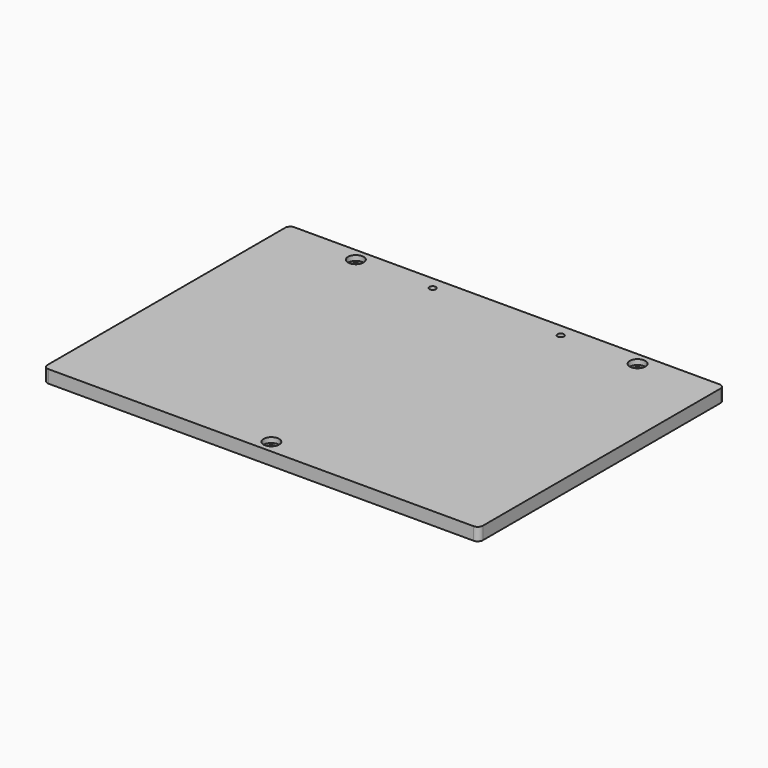
from build123d import *

# Parameters (mm, degrees)
BOX_W            = 170
BOX_H            = 120
BOX_DEPTH        = 5
HOLE_D           = 3.4
HOLE_DEPTH       = 25
HOLE_CBORE_D     = 6.1
HOLE_CBORE_DEPTH = 2
SKETCH001_R      = 1.25
HOLE001_DEPTH    = 5.001
FILLET_R         = 2


with BuildPart() as part:
    # Box → Box (join)
    with BuildSketch(Plane.XY):
        with Locations((85, 60)):
            Rectangle(BOX_W, BOX_H)
    extrude(amount=BOX_DEPTH)

    # Hole
    with Locations(Plane.XY.offset(5)):
        with Locations((30, 115), (140, 115), (85, 5)):
            CounterBoreHole(HOLE_D / 2, HOLE_CBORE_D / 2, HOLE_CBORE_DEPTH, depth=HOLE_DEPTH)

    # Sketch001 (on Face5 of Hole) → Hole001 (cut, through all)
    with BuildSketch(Plane(origin=(0, 0, 0), x_dir=(1, 0, 0), z_dir=(0, 0, -1))):
        with Locations((60, -115)):
            Circle(SKETCH001_R)
        with Locations((110, -115)):
            Circle(SKETCH001_R)
    extrude(amount=-HOLE001_DEPTH, mode=Mode.SUBTRACT)

    # Fillet
    fillet_edges = [part.edges().sort_by_distance(p)[0] for p in [
        (0, 120, 2.5),
        (170, 0, 2.5),
        (0, 0, 2.5),
        (170, 120, 2.5),
    ]]
    fillet(fillet_edges, radius=FILLET_R)


solid = part.part
